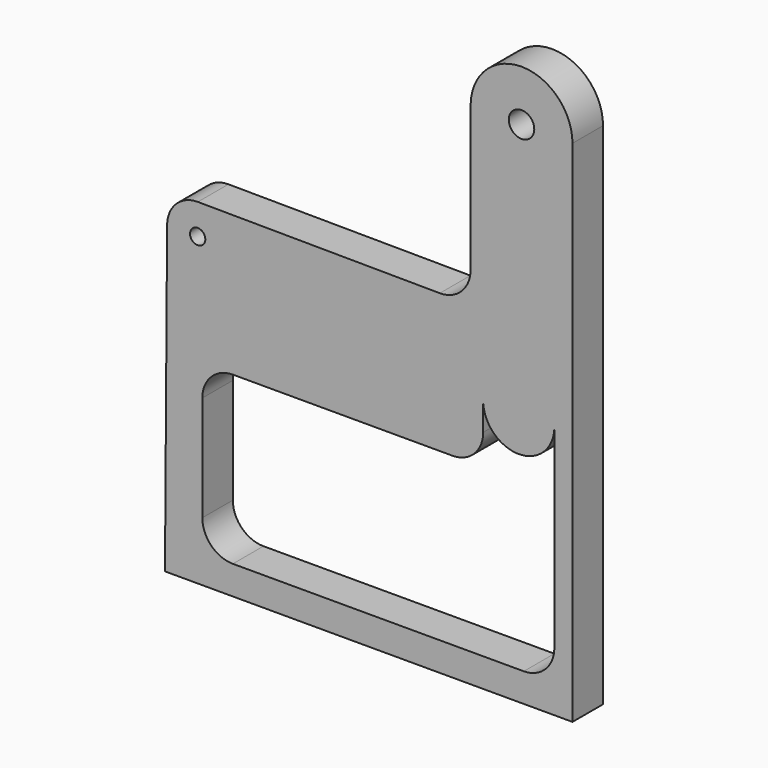
from build123d import *

# Parameters (mm, degrees)
F0_R     = 3
F0_R_2   = 5
F1_DEPTH = 15


with BuildPart() as f1:
    # F0 (on Front) → F1 (new body)
    with BuildSketch(Plane.XZ):
        with BuildLine():
            Line((-25.619237, 119.997091), (-26.454732, 0))
            Line((-26.454732, 0), (133.545268, 0))
            Line((133.545268, 0), (133.545268, 200))
            ThreePointArc((133.545268, 200), (113.545268, 220), (93.545268, 200))
            Line((93.545268, 200), (93.545268, 143.251527))
            ThreePointArc((93.545268, 143.251527), (90.000959, 134.736758), (81.461719, 131.251818))
            Line((81.461719, 131.251818), (-13.535978, 131.913251))
            ThreePointArc((-13.535978, 131.913251), (-22.045525, 128.457696), (-25.619237, 119.997091))
        make_face()
        with BuildLine():
            Line((98.498465, 88.689308), (98.498465, 98.683833))
            ThreePointArc((98.498465, 98.683833), (112.620812, 85.723137), (126.441521, 99.005017))
            Line((126.441521, 99.005017), (126.441521, 23.286659))
            ThreePointArc((126.441521, 23.286659), (122.926803, 14.801378), (114.441521, 11.286659))
            Line((114.441521, 11.286659), (0.203851, 11.286659))
            ThreePointArc((0.203851, 11.286659), (-8.281431, 14.801378), (-11.796149, 23.286659))
            Line((-11.796149, 23.286659), (-11.796149, 64.689308))
            ThreePointArc((-11.796149, 64.689308), (-8.281431, 73.174589), (0.203851, 76.689308))
            Line((0.203851, 76.689308), (86.498465, 76.689308))
            ThreePointArc((86.498465, 76.689308), (94.983746, 80.204026), (98.498465, 88.689308))
        make_face(mode=Mode.SUBTRACT)
        with Locations((-13.619528, 119.913542)):
            Circle(F0_R, mode=Mode.SUBTRACT)
        with Locations((113.545268, 200)):
            Circle(F0_R_2, mode=Mode.SUBTRACT)
    extrude(amount=F1_DEPTH)


solid = f1.part
